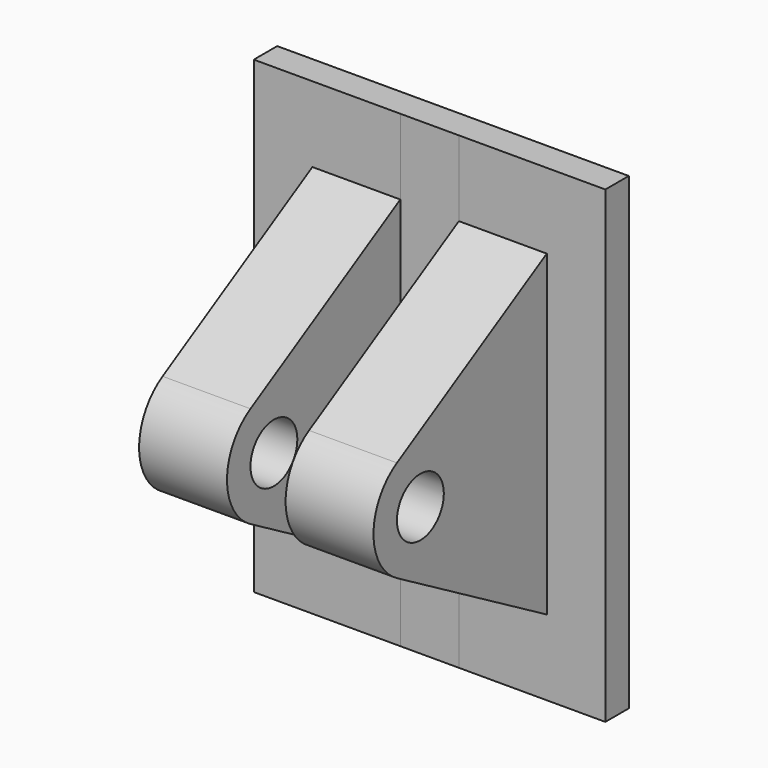
from build123d import *

# Parameters (mm, degrees)
F0_W     = 3
F0_H     = 4
F1_DEPTH = 0.25
F2_R     = 0.25
F3_DEPTH = 1
F4_W     = 0.5
F4_H     = 4.121107
F5_DEPTH = 12.5


with BuildPart() as f1:
    # F0 (on Front) → F1 (new body)
    with BuildSketch(Plane.XZ):
        Rectangle(F0_W, F0_H)
    extrude(amount=F1_DEPTH)

    # F2 (on Right) → F3 (join, symmetric)
    with BuildSketch(Plane.YZ):
        with BuildLine():
            Line((-1.848076, -0.433013), (0, -1.5))
            Line((0, -1.5), (0, 1.5))
            Line((0, 1.5), (-1.848076, 0.433013))
            ThreePointArc((-1.848076, 0.433013), (-2.098076, 0), (-1.848076, -0.433013))
        make_face()
        with Locations((-1.598076, 0)):
            Circle(F2_R, mode=Mode.SUBTRACT)
    extrude(amount=F3_DEPTH, both=True)

    # F4 (on Top) → F5 (cut, symmetric)
    with BuildSketch(Plane.XY):
        with Locations((0, -2.310553)):
            Rectangle(F4_W, F4_H)
    extrude(amount=F5_DEPTH, both=True, mode=Mode.SUBTRACT)


solid = f1.part
